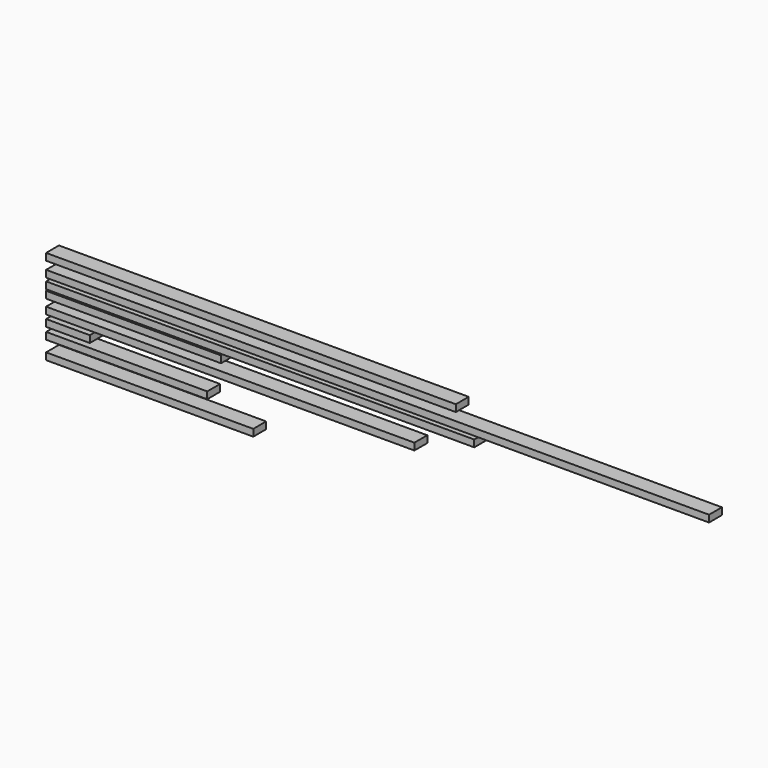
from build123d import *

# Parameters (mm, degrees)
F0_W      = 88.9
F0_H      = 38.1
F1_DEPTH  = 3657.6
F4_W      = 88.9
F4_H      = 38.1
F5_DEPTH  = 2362.2
F6_W      = 88.9
F6_H      = 38.1
F7_DEPTH  = 2260.6
F8_W      = 88.9
F8_H      = 38.1
F9_DEPTH  = 965.2
F10_W     = 88.9
F10_H     = 38.1
F11_DEPTH = 2032
F12_W     = 88.9
F12_H     = 38.1
F13_DEPTH = 241.3
F14_W     = 88.9
F14_H     = 38.1
F15_DEPTH = 889
F16_W     = 88.9
F16_H     = 38.1
F17_DEPTH = 1143


with BuildPart() as f1:
    # F0 (on Right) → F1 (new body)
    with BuildSketch(Plane.YZ):
        Rectangle(F0_W, F0_H)
    extrude(amount=F1_DEPTH)


with BuildPart() as f2_1:
    # F2: copy of F1
    add(f1.part.moved(Location((0, 0, 52.832))))


with BuildPart() as f5:
    # F4 (on Right) → F5 (new body)
    with BuildSketch(Plane.YZ):
        with Locations((0, -56.097239)):
            Rectangle(F4_W, F4_H)
    extrude(amount=F5_DEPTH)


with BuildPart() as f7:
    # F6 (on Right) → F7 (new body)
    with BuildSketch(Plane.YZ):
        with Locations((0, 82.222956)):
            Rectangle(F6_W, F6_H)
    extrude(amount=F7_DEPTH)


with BuildPart() as f9:
    # F8 (on Right) → F9 (new body)
    with BuildSketch(Plane.YZ):
        with Locations((0, -101.991609)):
            Rectangle(F8_W, F8_H)
    extrude(amount=F9_DEPTH)


with BuildPart() as f11:
    # F10 (on Right) → F11 (new body)
    with BuildSketch(Plane.YZ):
        with Locations((0, -178.788379)):
            Rectangle(F10_W, F10_H)
    extrude(amount=F11_DEPTH)


with BuildPart() as f13:
    # F12 (on Right) → F13 (new body)
    with BuildSketch(Plane.YZ):
        with Locations((0, -239.009604)):
            Rectangle(F12_W, F12_H)
    extrude(amount=F13_DEPTH)


with BuildPart() as f15:
    # F14 (on Right) → F15 (new body)
    with BuildSketch(Plane.YZ):
        with Locations((0, -301.439553)):
            Rectangle(F14_W, F14_H)
    extrude(amount=F15_DEPTH)


with BuildPart() as f17:
    # F16 (on Right) → F17 (new body)
    with BuildSketch(Plane.YZ):
        with Locations((0, -400.728822)):
            Rectangle(F16_W, F16_H)
    extrude(amount=F17_DEPTH)


solid = Compound([f1.part, f5.part, f7.part, f9.part, f11.part, f13.part, f15.part, f17.part])
